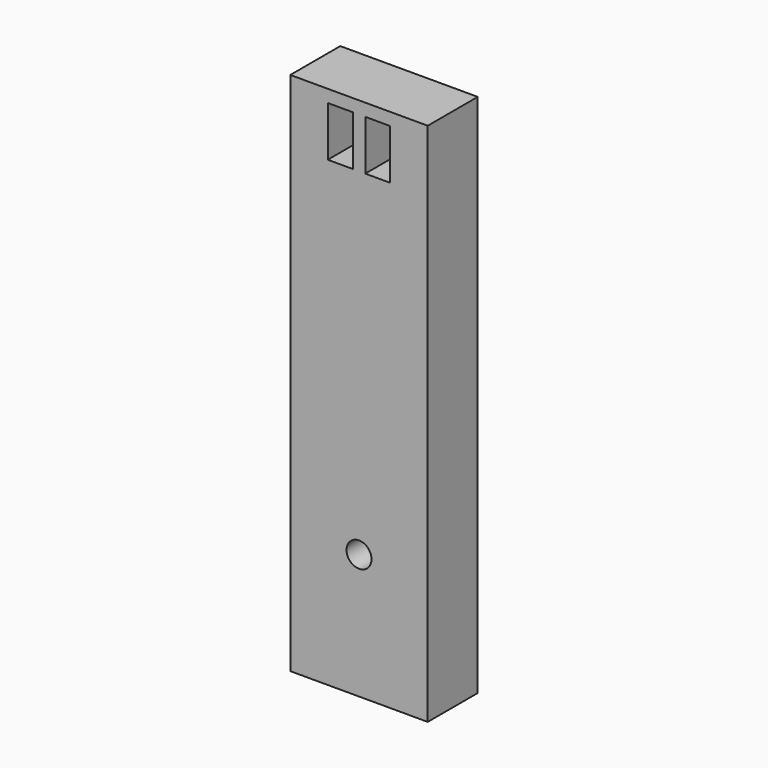
from build123d import *

# Parameters (mm, degrees)
F0_W     = 110
F0_H     = 420
F1_DEPTH = 50
F3_D     = 20
F3_DEPTH = 20
F3_TIP   = 6.0086061903
F2_W     = 20
F2_H     = 40
F4_DEPTH = 40
F5_W     = 20
F5_H     = 30
F6_DEPTH = 25


with BuildPart() as f1:
    # F0 (on Front) → F1 (new body)
    with BuildSketch(Plane.XZ):
        Rectangle(F0_W, F0_H)
    extrude(amount=-F1_DEPTH)

    # F3
    with Locations(Plane.XZ):
        with Locations((0, -110)):
            Hole(F3_D / 2, depth=F3_DEPTH)
            with Locations((0, 0, -(F3_DEPTH + F3_TIP / 2))):  # 118° drill point
                Cone(0, F3_D / 2, F3_TIP, mode=Mode.SUBTRACT)

    # F2 (on face) → F4 (cut)
    with BuildSketch(Plane.XZ):
        with Locations((-15, 180)):
            Rectangle(F2_W, F2_H)
        with Locations((15, 180)):
            Rectangle(F2_W, F2_H)
    extrude(amount=-F4_DEPTH, mode=Mode.SUBTRACT)

    # F5 (on face) → F6 (cut)
    with BuildSketch(Plane(origin=(-55, 0, 0), x_dir=(0, -1, 0), z_dir=(-1, 0, 0))):
        with Locations((-25, -110)):
            Rectangle(F5_W, F5_H)
    extrude(amount=-F6_DEPTH, mode=Mode.SUBTRACT)


solid = f1.part
